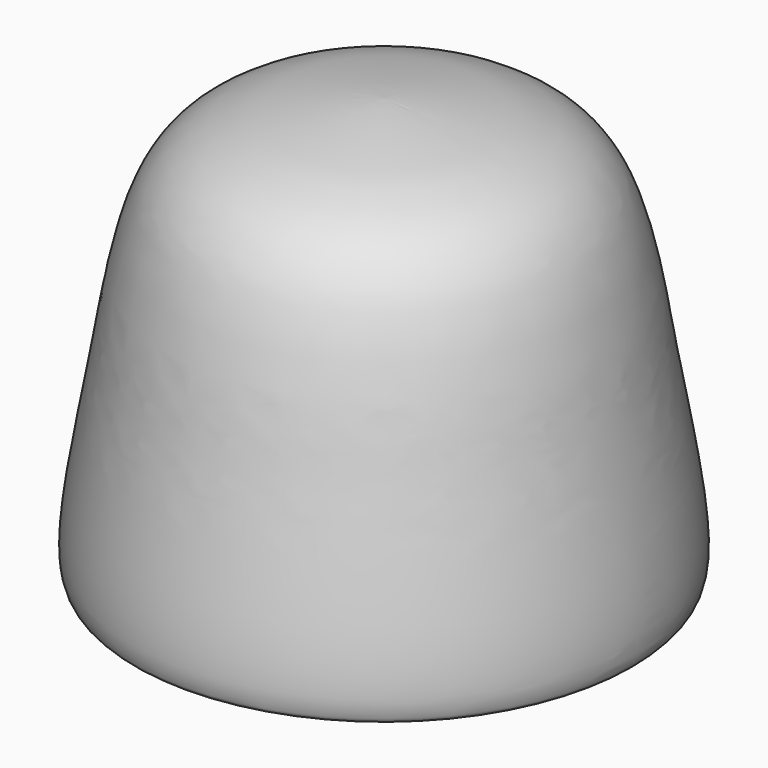
from build123d import *


with BuildPart() as f2:
    # F0 (on Front) → F2 (revolve)
    with BuildSketch(Plane.XZ):
        with BuildLine():
            add(Edge.make_bspline(
                [(0, 47.9042233655), (2.7710544698, 47.8225682973), (7.6637546596, 47.167485282), (22.9085597739, 44.2999413514), (25.7148072146, 22.7605475819), (29.6679498102, 3.8718926874), (28.1499836605, -1.216263296), (24.6359674765, 4.38568346), (24.3838527252, 20.9215104063), (19.5003848319, 42.2193844624), (7.8874179813, 44.615689317), (2.7853094998, 44.8163679441), (0, 44.7292233655)],
                knots=[0, 0, 0, 0, 0.0831848976, 0.1888799379, 0.32383666, 0.4564034214, 0.5055934183, 0.5643086015, 0.6889203841, 0.8235134016, 0.9165694913, 1, 1, 1, 1], degree=3))
            Line((0, 47.9042233655), (0, 44.7292233655))
        make_face()
    revolve(axis=Axis((0, 0, 14.13949579), (0, 0, -1)))


solid = f2.part
